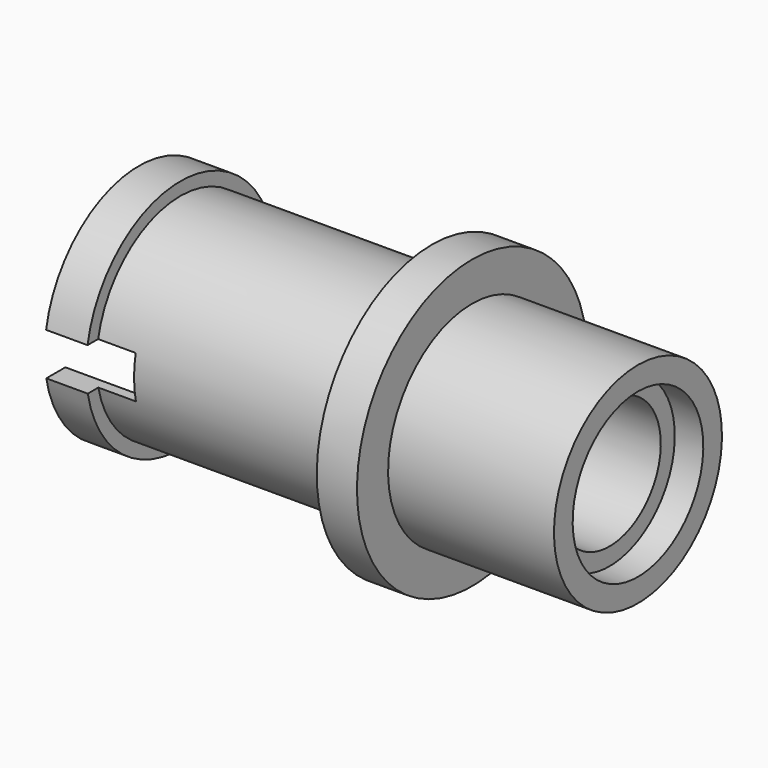
from build123d import *

# Parameters (mm, degrees)
F2_W     = 20.069398
F2_H     = 8.830535
F3_DEPTH = 6350


with BuildPart() as f1:
    # F0 (on Front) → F1 (revolve)
    with BuildSketch(Plane.XZ):
        Polygon((0, -13.245802), (0, 0), (28.36475, 0), (28.36475, 3.612492), (34.251776, 3.612492), (34.251776, 8.429147), (0, 8.429147), (0, 16.456908), (-8.295352, 16.456908), (-8.295352, 8.429147), (-60.208194, 8.429147), (-60.208194, 11.105067), (-68.771139, 11.105067), (-68.771139, 6.288412), (-45.758229, 6.288412), (-45.758229, 0), (-8.295352, 0), (-8.295352, -13.245802), align=None)
    revolve(axis=Axis((-4.147676, 0, -13.245802), (-1, 0, 0)))

    # F2 (on Front) → F3 (cut, symmetric)
    with BuildSketch(Plane.XZ):
        with Locations((-62.482726, -13.379599)):
            Rectangle(F2_W, F2_H)
    extrude(amount=F3_DEPTH, both=True, mode=Mode.SUBTRACT)


solid = f1.part
